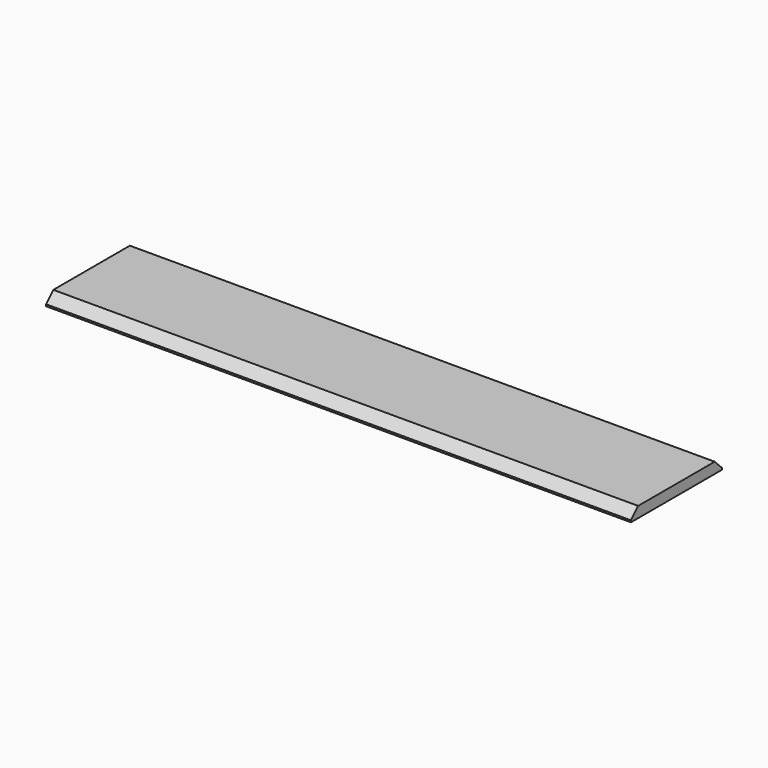
from build123d import *

# Parameters (mm, degrees)
SKETCH_W     = 162
SKETCH_H     = 31.5
PAD_DEPTH    = 3
CHAMFER_SIZE = 2.5


with BuildPart() as part:
    # Sketch → Pad (new body)
    with BuildSketch(Plane.XY):
        with Locations((81, -15.75)):
            Rectangle(SKETCH_W, SKETCH_H)
    extrude(amount=PAD_DEPTH)

    # Chamfer
    chamfer_edges = [part.edges().sort_by_distance(p)[0] for p in [
        (81, -31.5, 3),
        (81, 0, 3),
    ]]
    chamfer(chamfer_edges, length=CHAMFER_SIZE)


solid = part.part
